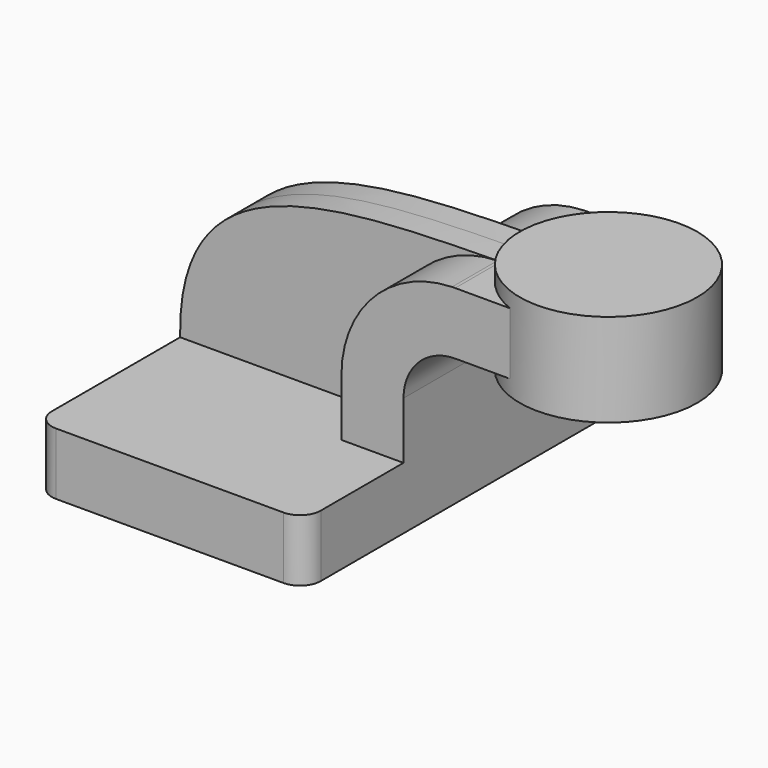
from build123d import *

# Parameters (mm, degrees)
F1_DEPTH = 63.5
F0_W     = 23.56047028
F0_H     = 19.05
F2_DEPTH = 25.4
F3_DEPTH = 7.9375
F5_R     = 6.35


with BuildPart() as f1:
    # F0 (on Front) → F1 (new body, symmetric)
    with BuildSketch(Plane.XZ):
        Polygon((22.225, 9.525), (-41.275, 9.525), (-41.275, -9.525), (41.275, -9.525), (41.275, 9.525), align=None)
    extrude(amount=F1_DEPTH, both=True)

    # F0 (on Front) → F2 (join, symmetric)
    with BuildSketch(Plane.XZ):
        with BuildLine():
            Line((22.225, 27.0002), (22.225, 9.525))
            Line((22.225, 9.525), (41.275, 9.525))
            Line((41.275, 9.525), (41.275, 27.0002))
            ThreePointArc((41.275, 27.0002), (45.9246798487, 38.2255201513), (57.15, 42.8752))
            Line((57.15, 42.8752), (60.325, 42.8752))
            Line((60.325, 42.8752), (60.325, 61.9252))
            Line((60.325, 61.9252), (57.15, 61.9252))
            add(Edge.make_bspline(
                [(56.1691485307, 61.9114239172), (56.4959134974, 61.9160287389), (56.8228676449, 61.9206165968), (57.15, 61.9252)],
                knots=[110.8013806044, 110.8013806044, 110.8013806044, 110.8013806044, 111.5045361635, 111.5045361635, 111.5045361635, 111.5045361635], degree=3))
            ThreePointArc((56.1691485307, 61.9114239172), (32.1099135129, 51.3466513578), (22.225, 27.0002))
        make_face()
        with Locations((72.10523514, 52.4002)):
            Rectangle(F0_W, F0_H)
    extrude(amount=F2_DEPTH, both=True)

    # F0 (on Front) → F4 (revolve)
    with BuildSketch(Plane.XZ):
        Polygon((83.88547028, 66.675), (83.88547028, 61.9252), (83.88547028, 42.8752), (83.88547028, 38.1), (111.125, 38.1), (111.125, 66.675), align=None)
    revolve(axis=Axis((83.88547028, 0, 52.3875), (0, 0, 1)))

    # F5
    f5_edges = [f1.edges().sort_by_distance(p)[0] for p in [
        (-41.275, -63.5, 0),
        (41.275, -63.5, 0),
        (41.275, 63.5, 0),
        (-41.275, 63.5, 0),
    ]]
    fillet(f5_edges, radius=F5_R)


with BuildPart() as f3:
    # F0 (on Front) → F3 (new body, symmetric)
    with BuildSketch(Plane.XZ):
        with BuildLine():
            add(Edge.make_bspline(
                [(-41.275, 9.525), (-42.1148808666, 60.0389676793), (4.6783952045, 61.1858083656), (56.1691485307, 61.9114239172)],
                knots=[0, 0, 0, 0, 110.8013806044, 110.8013806044, 110.8013806044, 110.8013806044], degree=3))
            Line((-41.275, 9.525), (22.225, 9.525))
            Line((22.225, 9.525), (22.225, 27.0002))
            ThreePointArc((22.225, 27.0002), (32.1099135129, 51.3466513578), (56.1691485307, 61.9114239172))
        make_face()
    extrude(amount=F3_DEPTH, both=True)


solid = Compound([f1.part, f3.part])
